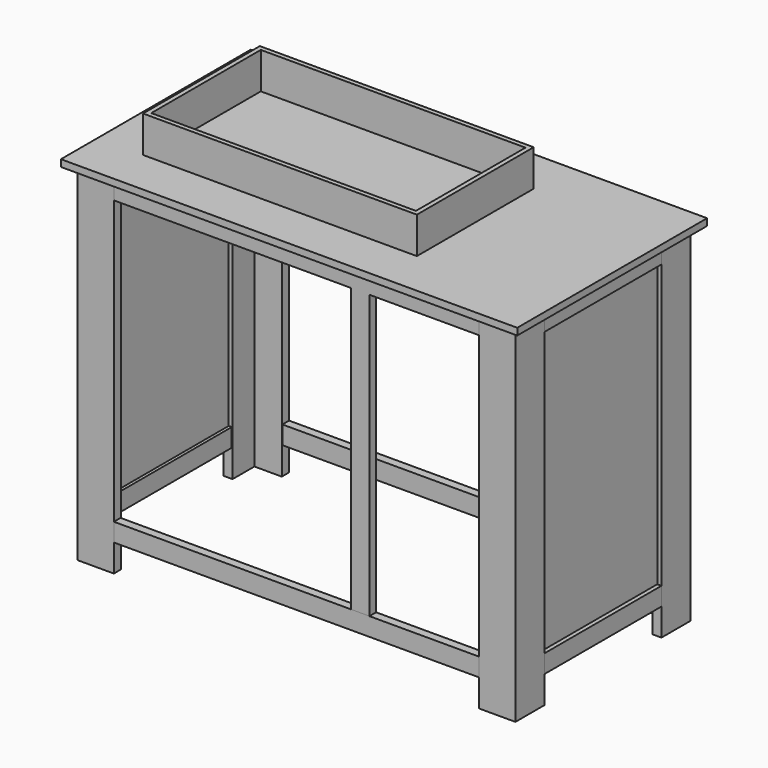
from build123d import *

# Parameters (mm, degrees)
F1_DEPTH  = 965.2
F2_W      = 23.2833333333
F2_H      = 50.8
F3_DEPTH  = 406.4
F4_W      = 23.2833333333
F4_H      = 50.8
F5_DEPTH  = 1016
F6_W      = 1270
F6_H      = 660.4
F7_DEPTH  = 19.05
F8_W      = 3.175
F8_H      = 406.4
F9_DEPTH  = 787.4
F10_W     = 50.8
F10_H     = 23.2833333333
F11_DEPTH = 787.4
F12_W     = 762
F12_H     = 406.4
F12_W_2   = 736.6
F12_H_2   = 381
F13_DEPTH = 101.6


with BuildPart() as f1:
    # F0 (on Top) → F1 (new body)
    with BuildSketch(Plane.XY):
        Polygon((-508, 304.8), (-609.6, 304.8), (-609.6, 203.2), (-584.2, 203.2), (-584.2, 279.4), (-508, 279.4), align=None)
    extrude(amount=F1_DEPTH)


with BuildPart() as f1b:
    # F0 (on Top) → F1, piece 2 (new body)
    with BuildSketch(Plane.XY):
        Polygon((609.6, 304.8), (508, 304.8), (508, 279.4), (584.2, 279.4), (584.2, 203.2), (609.6, 203.2), align=None)
    extrude(amount=F1_DEPTH)


with BuildPart() as f1c:
    # F0 (on Top) → F1, piece 3 (new body)
    with BuildSketch(Plane.XY):
        Polygon((508, -279.4), (508, -304.8), (609.6, -304.8), (609.6, -203.2), (584.2, -203.2), (584.2, -279.4), align=None)
    extrude(amount=F1_DEPTH)


with BuildPart() as f1d:
    # F0 (on Top) → F1, piece 4 (new body)
    with BuildSketch(Plane.XY):
        Polygon((-609.6, -304.8), (-508, -304.8), (-508, -279.4), (-584.2, -279.4), (-584.2, -203.2), (-609.6, -203.2), align=None)
    extrude(amount=F1_DEPTH)


with BuildPart() as f3:
    # F2 (on face) → F3 (new body, through all)
    with BuildSketch(Plane.XZ.offset(-203.2)):
        with Locations((-597.9583333333, 939.8)):
            Rectangle(F2_W, F2_H)
    extrude(amount=F3_DEPTH)


with BuildPart() as f3b:
    # F2 (on face) → F3, piece 2 (new body, through all)
    with BuildSketch(Plane.XZ.offset(-203.2)):
        with Locations((597.9583333333, 939.8)):
            Rectangle(F2_W, F2_H)
    extrude(amount=F3_DEPTH)


with BuildPart() as f3c:
    # F2 (on face) → F3, piece 3 (new body, through all)
    with BuildSketch(Plane.XZ.offset(-203.2)):
        with Locations((-597.9583333333, 101.6)):
            Rectangle(F2_W, F2_H)
    extrude(amount=F3_DEPTH)


with BuildPart() as f3d:
    # F2 (on face) → F3, piece 4 (new body, through all)
    with BuildSketch(Plane.XZ.offset(-203.2)):
        with Locations((597.9583333333, 101.6)):
            Rectangle(F2_W, F2_H)
    extrude(amount=F3_DEPTH)


with BuildPart() as f5:
    # F4 (on face) → F5 (new body, through all)
    with BuildSketch(Plane.YZ.offset(-508)):
        with Locations((293.1583333333, 939.8)):
            Rectangle(F4_W, F4_H)
    extrude(amount=F5_DEPTH)


with BuildPart() as f5b:
    # F4 (on face) → F5, piece 2 (new body, through all)
    with BuildSketch(Plane.YZ.offset(-508)):
        with Locations((293.1583333333, 101.6)):
            Rectangle(F4_W, F4_H)
    extrude(amount=F5_DEPTH)


with BuildPart() as f5c:
    # F4 (on face) → F5, piece 3 (new body, through all)
    with BuildSketch(Plane.YZ.offset(-508)):
        with Locations((-293.1583333333, 101.6)):
            Rectangle(F4_W, F4_H)
    extrude(amount=F5_DEPTH)


with BuildPart() as f5d:
    # F4 (on face) → F5, piece 4 (new body, through all)
    with BuildSketch(Plane.YZ.offset(-508)):
        with Locations((-293.1583333333, 939.8)):
            Rectangle(F4_W, F4_H)
    extrude(amount=F5_DEPTH)

    # F10 (on face) → F11 (join, through all)
    with BuildSketch(Plane(origin=(0, 0, 914.4), x_dir=(1, 0, 0), z_dir=(0, 0, -1))):
        with Locations((177.8, 293.1583333333)):
            Rectangle(F10_W, F10_H)
    extrude(amount=F11_DEPTH)


with BuildPart() as f7:
    # F6 (on face) → F7 (new body)
    with BuildSketch(Plane.XY.offset(965.2)):
        Rectangle(F6_W, F6_H)
    extrude(amount=F7_DEPTH)

    # F12 (on face) → F13 (join)
    with BuildSketch(Plane.XY.offset(984.25)):
        with Locations((-127, 0)):
            Rectangle(F12_W, F12_H)
        with Locations((-127, 0)):
            Rectangle(F12_W_2, F12_H_2, mode=Mode.SUBTRACT)
    extrude(amount=F13_DEPTH)


with BuildPart() as f9:
    # F8 (on face) → F9 (new body, through all)
    with BuildSketch(Plane(origin=(0, 0, 914.4), x_dir=(1, 0, 0), z_dir=(0, 0, -1))):
        with Locations((-596.3708333333, 0)):
            Rectangle(F8_W, F8_H)
    extrude(amount=F9_DEPTH)


with BuildPart() as f9b:
    # F8 (on face) → F9, piece 2 (new body, through all)
    with BuildSketch(Plane(origin=(0, 0, 914.4), x_dir=(1, 0, 0), z_dir=(0, 0, -1))):
        with Locations((596.3708333333, 0)):
            Rectangle(F8_W, F8_H)
    extrude(amount=F9_DEPTH)


solid = Compound([f1.part, f1b.part, f1c.part, f1d.part, f3.part, f3b.part, f3c.part, f3d.part, f5.part, f5b.part, f5c.part, f5d.part, f7.part, f9.part, f9b.part])
